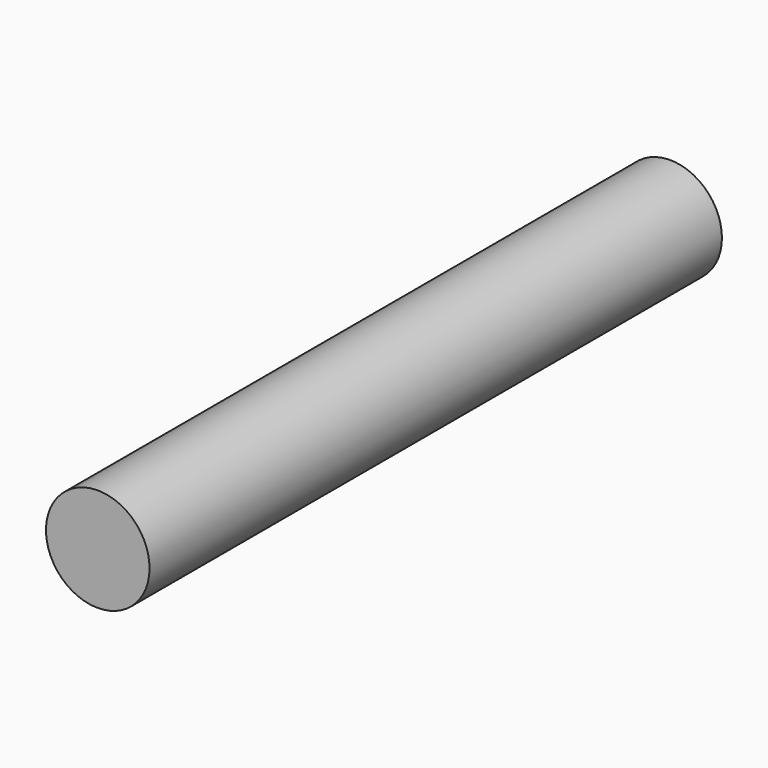
from build123d import *

# Parameters (mm, degrees)
F0_R     = 7.237437
F1_DEPTH = 100
F2_DEPTH = 25.4


with BuildPart() as f1:
    # F0 (on Front) → F1 (new body)
    with BuildSketch(Plane.XZ):
        Circle(F0_R)
    extrude(amount=F1_DEPTH)

    # F0 (on Front) → F2 (join)
    with BuildSketch(Plane.XZ):
        Circle(F0_R)
    extrude(amount=F2_DEPTH)


solid = f1.part
